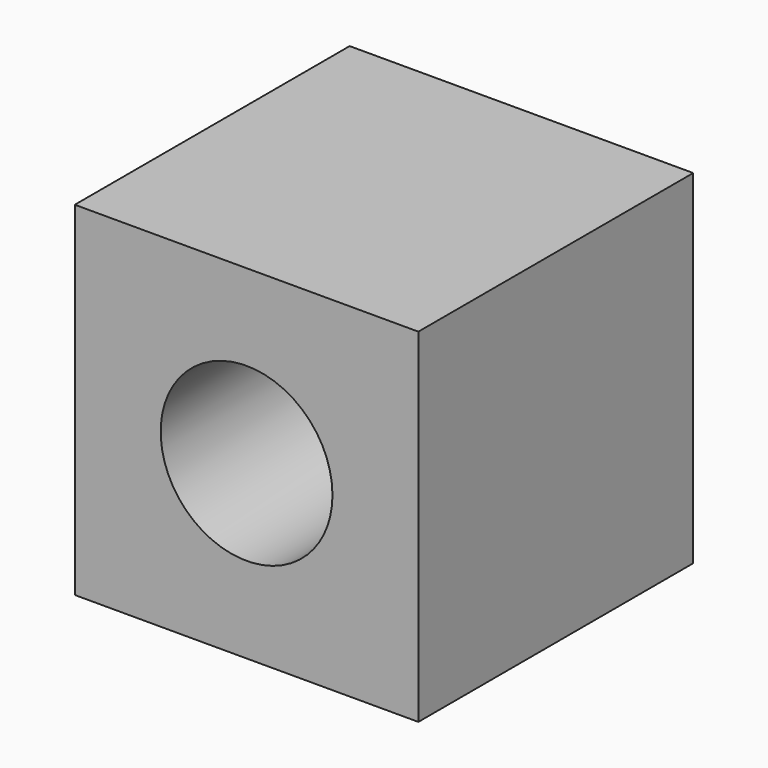
from build123d import *

# Parameters (mm, degrees)
F0_W     = 50.8
F0_H     = 50.8
F1_DEPTH = 50.8
F3_DEPTH = 50.8


with BuildPart() as f1:
    # F0 (on Top) → F1 (new body)
    with BuildSketch(Plane.XY):
        with Locations((25.4, 25.4)):
            Rectangle(F0_W, F0_H)
    extrude(amount=F1_DEPTH)

    # F2 (on face) → F3 (cut)
    with BuildSketch(Plane.XZ):
        with BuildLine():
            ThreePointArc((38.1, 25.4), (30.26008, 37.13327), (16.419744, 34.380256))
            Line((16.419744, 34.380256), (34.380256, 16.419744))
            ThreePointArc((34.380256, 16.419744), (37.13327, 20.53992), (38.1, 25.4))
        make_face()
        with BuildLine():
            Line((34.380256, 16.419744), (16.419744, 34.380256))
            ThreePointArc((16.419744, 34.380256), (16.419744, 16.419744), (34.380256, 16.419744))
        make_face()
    extrude(amount=-F3_DEPTH, mode=Mode.SUBTRACT)


solid = f1.part
